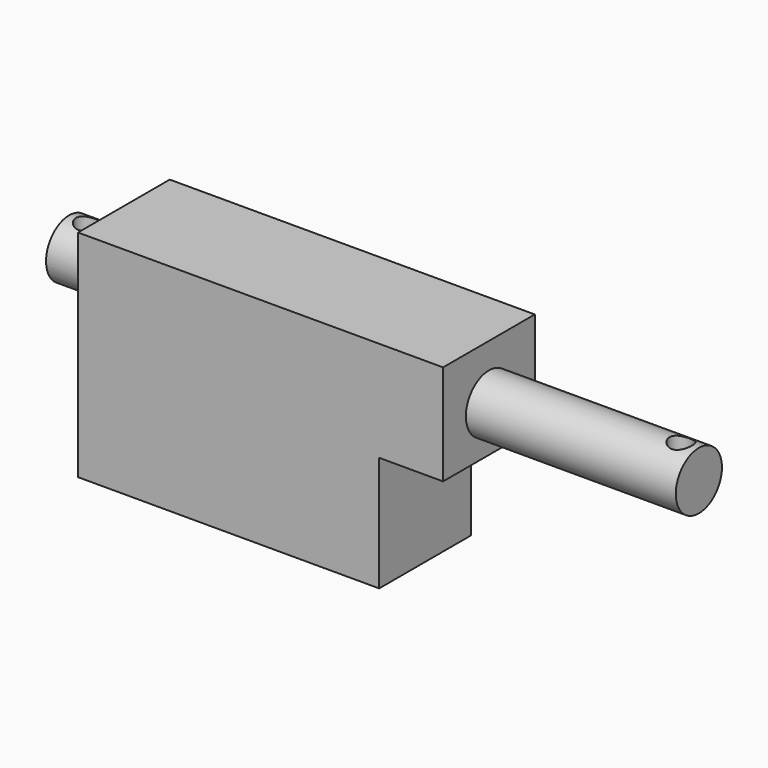
from build123d import *

# Parameters (mm, degrees)
F0_R          = 10.033
F1_DEPTH      = 219.075
F3_W          = 39.878
F3_H          = 74.93
F4_DEPTH      = 127
F5_W          = 39.878
F5_H          = 40.005
F6_DEPTH      = 22.225
F7_R          = 3.937
F8_DEPTH      = 55.881
F8_DEPTH_BACK = 19.051


with BuildPart() as f1:
    # F0 (on Right) → F1 (new body)
    with BuildSketch(Plane.YZ):
        Circle(F0_R)
    extrude(amount=F1_DEPTH)

    # F3 (on offset) → F4 (join)
    with BuildSketch(Plane.YZ.offset(19.05)):
        with Locations((0, -18.415)):
            Rectangle(F3_W, F3_H)
    extrude(amount=F4_DEPTH)

    # F5 (on face) → F6 (cut)
    with BuildSketch(Plane.YZ.offset(146.05)):
        with Locations((0, -35.8775)):
            Rectangle(F5_W, F5_H)
    extrude(amount=-F6_DEPTH, mode=Mode.SUBTRACT)

    # F7 (on Top) → F8 (cut, two sides)
    with BuildSketch(Plane.XY) as f8_sk:
        with Locations((6.35, 0)):
            Circle(F7_R)
        with Locations((212.852, 0)):
            Circle(F7_R)
    extrude(amount=-F8_DEPTH, mode=Mode.SUBTRACT)
    extrude(f8_sk.sketch, amount=F8_DEPTH_BACK, mode=Mode.SUBTRACT)


solid = f1.part
